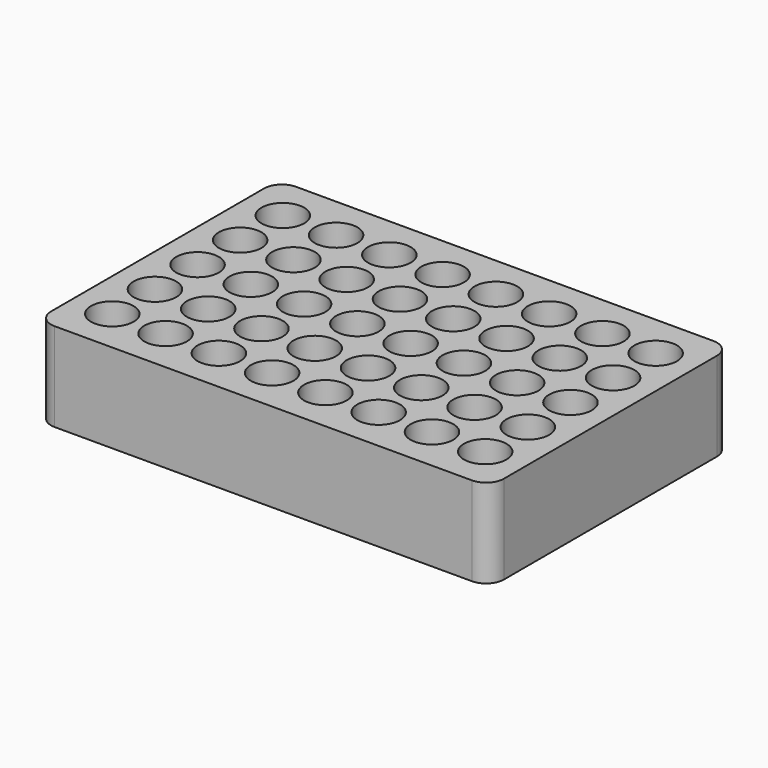
from build123d import *

# Parameters (mm, degrees)
F1_DEPTH = 25
F2_R     = 6
F3_DEPTH = 20


with BuildPart() as f1:
    # F0 (on Top) → F1 (new body)
    with BuildSketch(Plane.XY):
        with BuildLine():
            Line((-58.75, -42.5), (58.75, -42.5))
            ThreePointArc((58.75, -42.5), (62.285534, -41.035534), (63.75, -37.5))
            Line((63.75, -37.5), (63.75, 37.5))
            ThreePointArc((63.75, 37.5), (62.285534, 41.035534), (58.75, 42.5))
            Line((58.75, 42.5), (-58.75, 42.5))
            ThreePointArc((-58.75, 42.5), (-62.285534, 41.035534), (-63.75, 37.5))
            Line((-63.75, 37.5), (-63.75, -37.5))
            ThreePointArc((-63.75, -37.5), (-62.285534, -41.035534), (-58.75, -42.5))
        make_face()
    extrude(amount=F1_DEPTH)

    # F2 (on face) → F3 (cut)
    with BuildSketch(Plane.XY.offset(25)):
        with Locations((-52.5, 30)):
            Circle(F2_R)
        with Locations((-52.5, 15)):
            Circle(F2_R)
        with Locations((-52.5, 0)):
            Circle(F2_R)
        with Locations((-52.5, -15)):
            Circle(F2_R)
        with Locations((-52.5, -30)):
            Circle(F2_R)
        with Locations((-37.5, 30)):
            Circle(F2_R)
        with Locations((-37.5, 15)):
            Circle(F2_R)
        with Locations((-37.5, 0)):
            Circle(F2_R)
        with Locations((-37.5, -15)):
            Circle(F2_R)
        with Locations((-37.5, -30)):
            Circle(F2_R)
        with Locations((-22.5, 30)):
            Circle(F2_R)
        with Locations((-22.5, 15)):
            Circle(F2_R)
        with Locations((-22.5, 0)):
            Circle(F2_R)
        with Locations((-22.5, -15)):
            Circle(F2_R)
        with Locations((-22.5, -30)):
            Circle(F2_R)
        with Locations((-7.5, 30)):
            Circle(F2_R)
        with Locations((-7.5, 15)):
            Circle(F2_R)
        with Locations((-7.5, 0)):
            Circle(F2_R)
        with Locations((-7.5, -15)):
            Circle(F2_R)
        with Locations((-7.5, -30)):
            Circle(F2_R)
        with Locations((7.5, 30)):
            Circle(F2_R)
        with Locations((7.5, 15)):
            Circle(F2_R)
        with Locations((7.5, 0)):
            Circle(F2_R)
        with Locations((7.5, -15)):
            Circle(F2_R)
        with Locations((7.5, -30)):
            Circle(F2_R)
        with Locations((22.5, 30)):
            Circle(F2_R)
        with Locations((22.5, 15)):
            Circle(F2_R)
        with Locations((22.5, 0)):
            Circle(F2_R)
        with Locations((22.5, -15)):
            Circle(F2_R)
        with Locations((22.5, -30)):
            Circle(F2_R)
        with Locations((37.5, 30)):
            Circle(F2_R)
        with Locations((37.5, 15)):
            Circle(F2_R)
        with Locations((37.5, 0)):
            Circle(F2_R)
        with Locations((37.5, -15)):
            Circle(F2_R)
        with Locations((37.5, -30)):
            Circle(F2_R)
        with Locations((52.5, 30)):
            Circle(F2_R)
        with Locations((52.5, 15)):
            Circle(F2_R)
        with Locations((52.5, 0)):
            Circle(F2_R)
        with Locations((52.5, -15)):
            Circle(F2_R)
        with Locations((52.5, -30)):
            Circle(F2_R)
    extrude(amount=-F3_DEPTH, mode=Mode.SUBTRACT)


solid = f1.part
